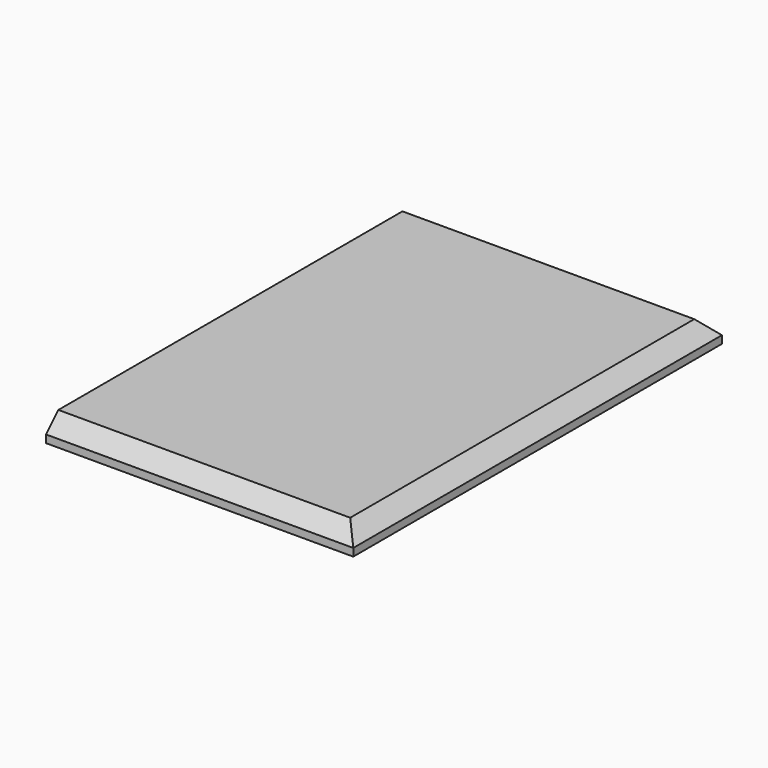
from build123d import *

# Parameters (mm, degrees)
F0_W     = 40
F0_H     = 60
F1_DEPTH = 3
F2_SIZE  = 2


with BuildPart() as f1:
    # F0 (on Top) → F1 (new body)
    with BuildSketch(Plane.XY):
        Rectangle(F0_W, F0_H)
    extrude(amount=F1_DEPTH)

    # F2
    f2_edges = [f1.edges().sort_by_distance(p)[0] for p in [
        (0, -30, 3),
        (0, 30, 3),
        (20, 0, 3),
    ]]
    chamfer(f2_edges, length=F2_SIZE)


solid = f1.part
